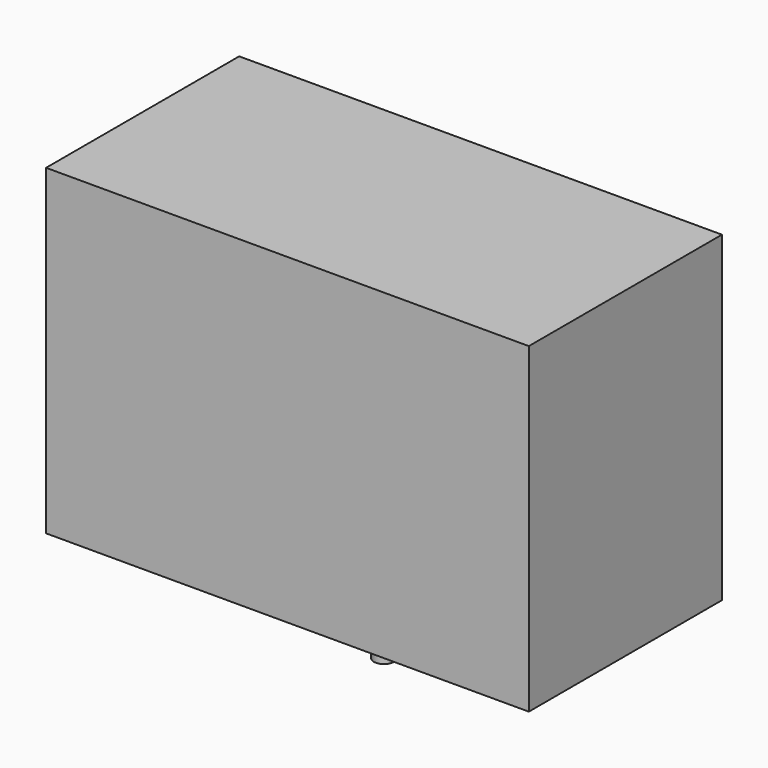
from build123d import *

# Parameters (mm, degrees)
F0_W     = 152.4
F0_H     = 203.2
F1_DEPTH = 152.4
F2_R     = 6.35
F3_DEPTH = 50.8


with BuildPart() as f1:
    # F0 (on Front) → F1 (new body)
    with BuildSketch(Plane.XZ):
        with Locations((-76.2, 101.6)):
            Rectangle(F0_W, F0_H)
        with Locations((76.2, 101.6)):
            Rectangle(F0_W, F0_H)
    extrude(amount=F1_DEPTH)

    # F2 (on face) → F3 (join)
    with BuildSketch(Plane(origin=(0, 0, 0), x_dir=(1, 0, 0), z_dir=(0, 0, -1))):
        with Locations((0, 76.2)):
            Circle(F2_R)
    extrude(amount=F3_DEPTH)


solid = f1.part
